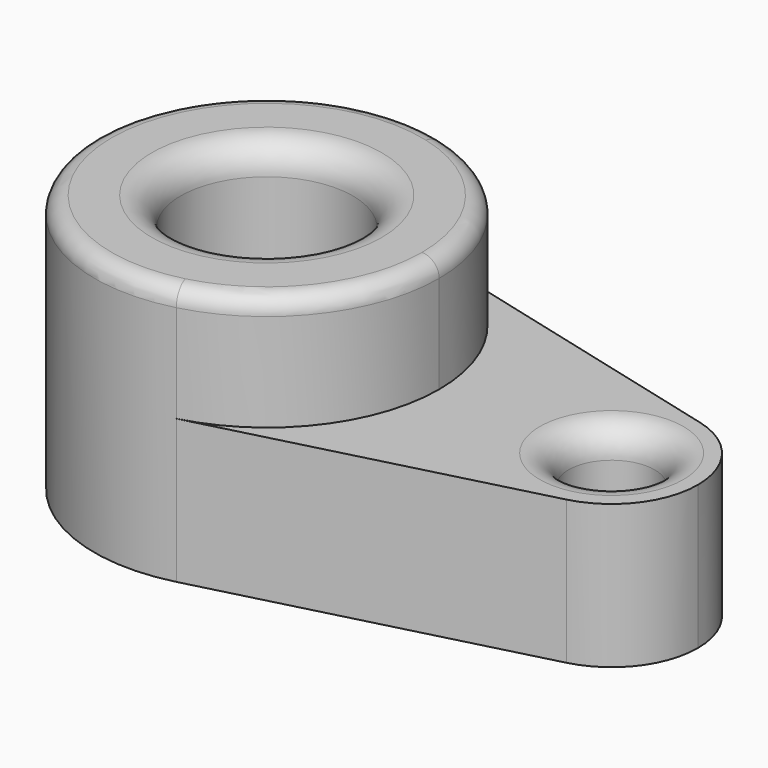
from build123d import *

# Parameters (mm, degrees)
F0_R     = 15
F0_R_2   = 7.5
F1_DEPTH = 25
F2_DEPTH = 45
F3_R     = 3
F4_R     = 5


with BuildPart() as f1:
    # F0 (on Top) → F1 (new body)
    with BuildSketch(Plane.XY):
        with BuildLine():
            ThreePointArc((7.5, -29.047375), (23.717082, -18.371173), (30, 0))
            ThreePointArc((30, 0), (23.717082, 18.371173), (7.5, 29.047375))
            ThreePointArc((7.5, 29.047375), (-30, 0), (7.5, -29.047375))
        make_face()
        Circle(F0_R, mode=Mode.SUBTRACT)
        with BuildLine():
            ThreePointArc((7.5, 29.047375), (23.717082, 18.371173), (30, 0))
            ThreePointArc((30, 0), (23.717082, -18.371173), (7.5, -29.047375))
            Line((7.5, -29.047375), (63.75, -14.523688))
            ThreePointArc((63.75, -14.523688), (45, 0), (63.75, 14.523688))
            Line((63.75, 14.523688), (7.5, 29.047375))
        make_face()
        with BuildLine():
            ThreePointArc((75, 0), (71.858541, 9.185587), (63.75, 14.523688))
            ThreePointArc((63.75, 14.523688), (45, 0), (63.75, -14.523688))
            ThreePointArc((63.75, -14.523688), (71.858541, -9.185587), (75, 0))
        make_face()
        with Locations((60, 0)):
            Circle(F0_R_2, mode=Mode.SUBTRACT)
    extrude(amount=F1_DEPTH)

    # F0 (on Top) → F2 (join)
    with BuildSketch(Plane.XY):
        with BuildLine():
            ThreePointArc((7.5, -29.047375), (23.717082, -18.371173), (30, 0))
            ThreePointArc((30, 0), (23.717082, 18.371173), (7.5, 29.047375))
            ThreePointArc((7.5, 29.047375), (-30, 0), (7.5, -29.047375))
        make_face()
        Circle(F0_R, mode=Mode.SUBTRACT)
    extrude(amount=F2_DEPTH)

    # F3
    f3_edges = [f1.edges().sort_by_distance(p)[0] for p in [
        (-7.5, 29.047375, 45),
    ]]
    fillet(f3_edges, radius=F3_R)

    # F4
    f4_edges = [f1.edges().sort_by_distance(p)[0] for p in [
        (-15, 0, 45),
        (52.5, 0, 25),
    ]]
    fillet(f4_edges, radius=F4_R)


solid = f1.part
